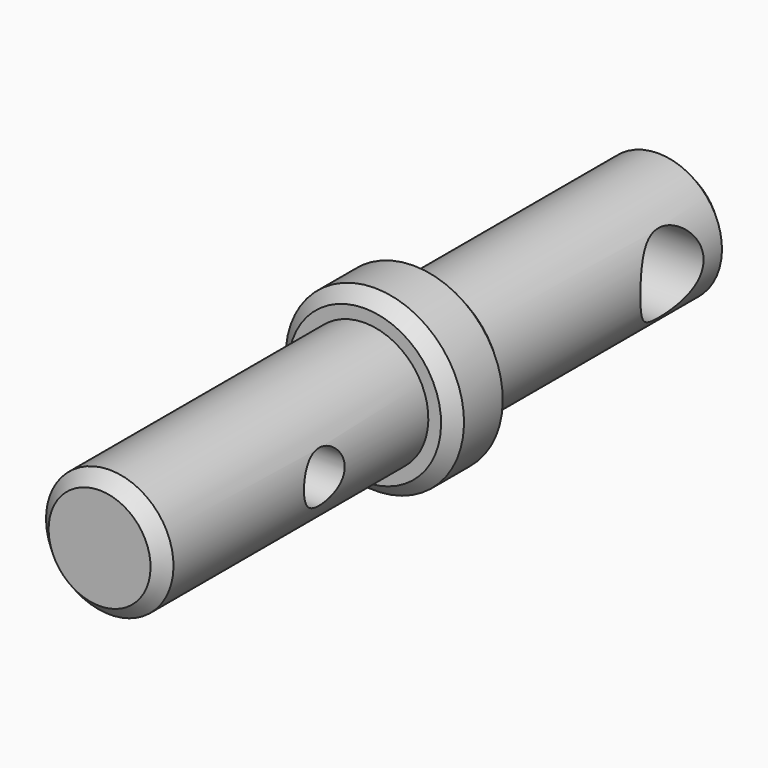
from build123d import *

# Parameters (mm, degrees)
F2_SIZE  = 0.5
F3_R     = 1
F3_R_2   = 1.55
F4_DEPTH = 12.5


with BuildPart() as f1:
    # F0 (on Right) → F1 (revolve)
    with BuildSketch(Plane.YZ):
        Polygon((-15.9, 2.5), (-15.9, 0), (10, 0), (12, 0), (12, 2.5), (4, 2.5), (0, 2.5), (0, 3.5), (-2.9, 3.5), (-2.9, 2.5), align=None)
    revolve(axis=Axis((0, -0.324999528, 0), (0, 1, 0)))

    # F2
    f2_edges = [f1.edges().sort_by_distance(p)[0] for p in [
        (0, -15.9, -2.5),
        (0, 0, -3.5),
        (0, -2.9, -3.5),
        (0, -1.45, 3.5),
        (0, 12, -2.5),
    ]]
    chamfer(f2_edges, length=F2_SIZE)

    # F3 (on Right) → F4 (cut, symmetric)
    with BuildSketch(Plane.YZ):
        with Locations((-8, 0)):
            Circle(F3_R)
        with Locations((9.05, 0)):
            Circle(F3_R_2)
    extrude(amount=F4_DEPTH, both=True, mode=Mode.SUBTRACT)


solid = f1.part
